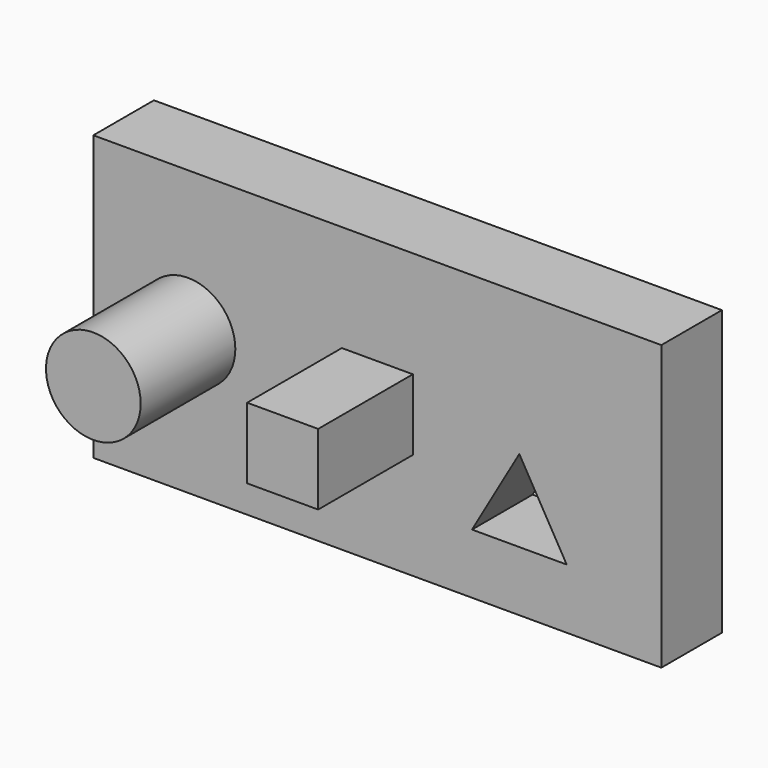
from build123d import *

# Parameters (mm, degrees)
F0_W     = 152.4
F0_H     = 76.2
F0_R     = 12.7
F1_DEPTH = 20.32
F2_DEPTH = 52.07


with BuildPart() as f1:
    # F0 (on Front) → F1 (new body)
    with BuildSketch(Plane.XZ):
        with Locations((-31.75, 0)):
            Rectangle(F0_W, F0_H)
        Polygon((-6.35, -21.997045), (6.35, 0), (19.05, -21.997045), align=None, mode=Mode.SUBTRACT)
        with Locations((-82.55, 0)):
            Circle(F0_R, mode=Mode.SUBTRACT)
        Polygon((-22.225, 9.525), (-22.225, 0), (-22.225, -9.525), (-41.275, -9.525), (-41.275, 0), (-41.275, 9.525), align=None, mode=Mode.SUBTRACT)
    extrude(amount=F1_DEPTH)


with BuildPart() as f2:
    # F0 (on Front) → F2 (new body)
    with BuildSketch(Plane.XZ):
        with Locations((-82.55, 0)):
            Circle(F0_R)
        Polygon((-31.75, 0), (-22.225, 0), (-22.225, 9.525), (-41.275, 9.525), (-41.275, 0), align=None)
        Polygon((-22.225, -9.525), (-22.225, 0), (-31.75, 0), (-41.275, 0), (-41.275, -9.525), align=None)
    extrude(amount=F2_DEPTH)


solid = Compound([f1.part, f2.part])
